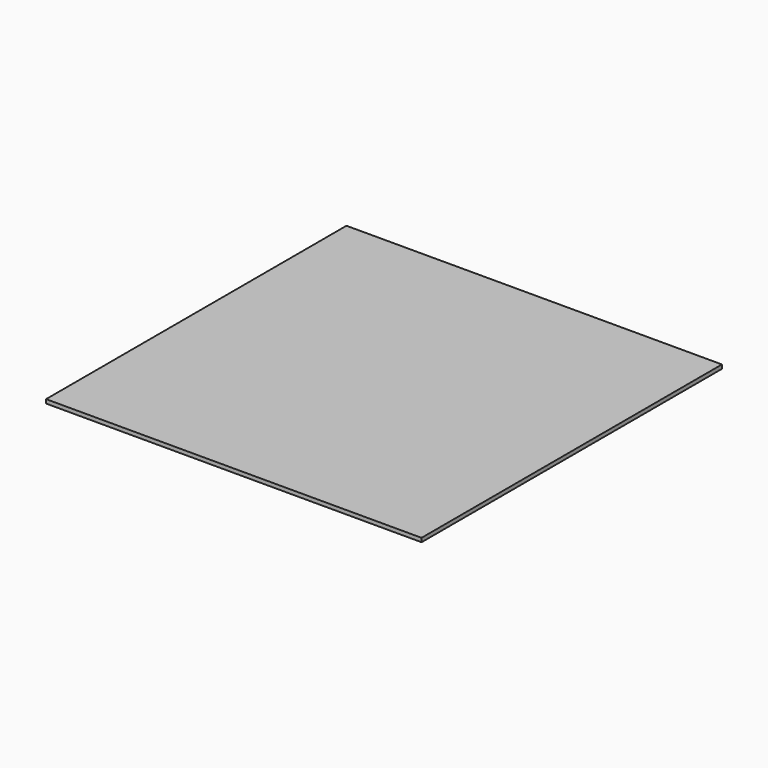
from build123d import *

# Parameters (mm, degrees)
BOX_W     = 609.6
BOX_H     = 609.6
BOX_DEPTH = 6.35


with BuildPart() as part:
    # Box → Box (new body)
    with BuildSketch(Plane.XY):
        with Locations((304.8, 304.8)):
            Rectangle(BOX_W, BOX_H)
    extrude(amount=BOX_DEPTH)


solid = part.part
